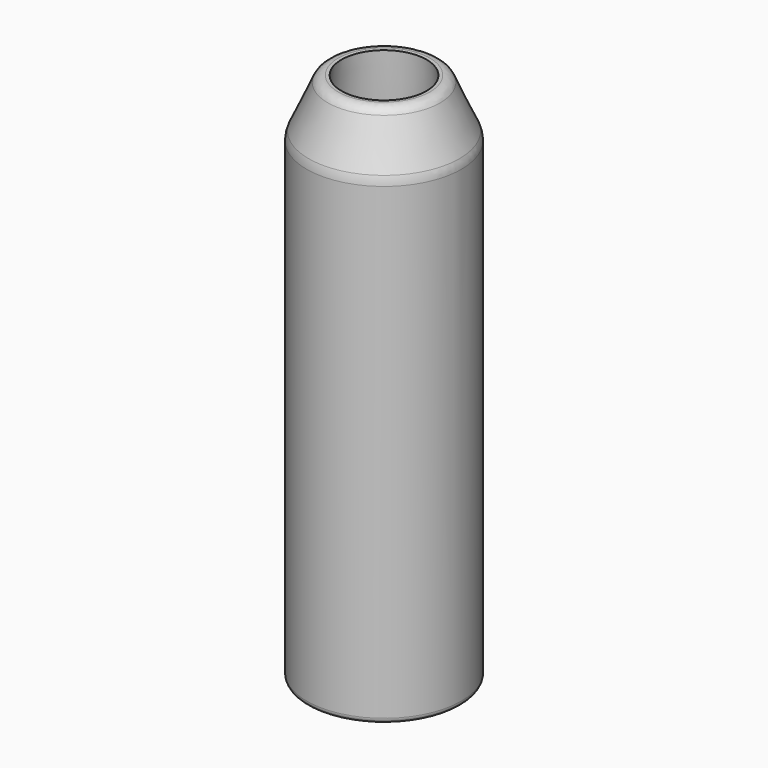
from build123d import *

# Parameters (mm, degrees)
F3_R = 2
F4_R = 4
F5_R = 1


with BuildPart() as f2:
    # F0 (on Front) → F2 (revolve)
    with BuildSketch(Plane.XZ):
        Polygon((10, 95.136816), (8, 95.02412), (8.562585, 85.039958), (13.062585, 85.039958), (13.062585, -4.960042), (14.562585, -4.960042), (14.562585, 85.039958), align=None)
    revolve(axis=Axis((0, 0, 47.995005), (0, 0, 1)))

    # F3
    f3_edges = [f2.edges().sort_by_distance(p)[0] for p in [
        (-10, 0, 95.136816),
    ]]
    fillet(f3_edges, radius=F3_R)

    # F4
    f4_edges = [f2.edges().sort_by_distance(p)[0] for p in [
        (-14.562585, 0, 85.039958),
    ]]
    fillet(f4_edges, radius=F4_R)

    # F5
    f5_edges = [f2.edges().sort_by_distance(p)[0] for p in [
        (-14.562585, 0, -4.960042),
    ]]
    fillet(f5_edges, radius=F5_R)


solid = f2.part
